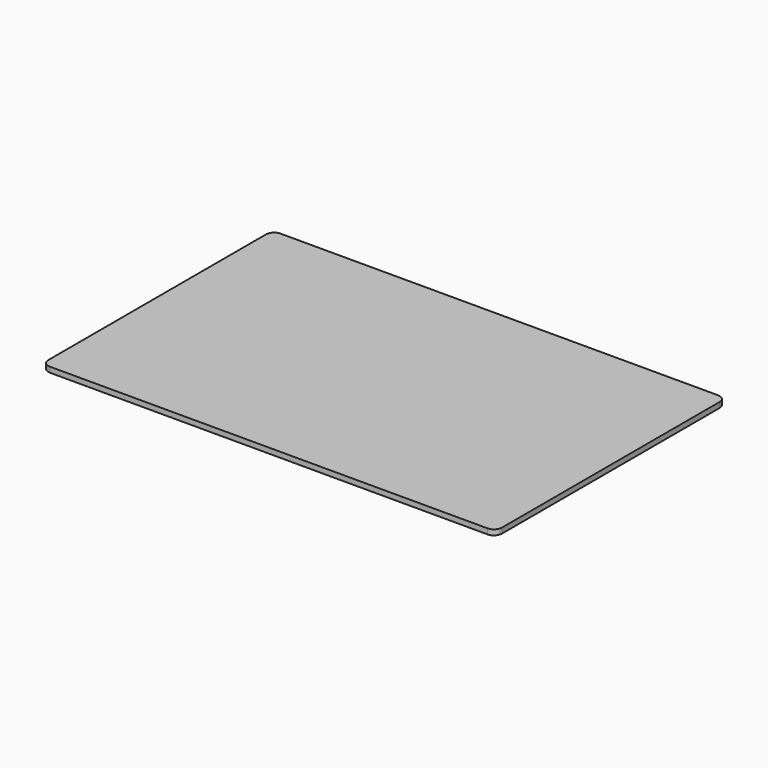
from build123d import *

# Parameters (mm, degrees)
SKETCH_W  = 85
SKETCH_H  = 54
PAD_DEPTH = 1
FILLET_R  = 1.5


with BuildPart() as part:
    # Sketch (on XY_Plane of Origin) → Pad (new body)
    with BuildSketch(Plane.XY):
        Rectangle(SKETCH_W, SKETCH_H)
    extrude(amount=PAD_DEPTH)

    # Fillet
    fillet_edges = [part.edges().sort_by_distance(p)[0] for p in [
        (42.5, -27, 0.5),
        (42.5, 27, 0.5),
        (-42.5, 27, 0.5),
        (-42.5, -27, 0.5),
    ]]
    fillet(fillet_edges, radius=FILLET_R)


solid = part.part
